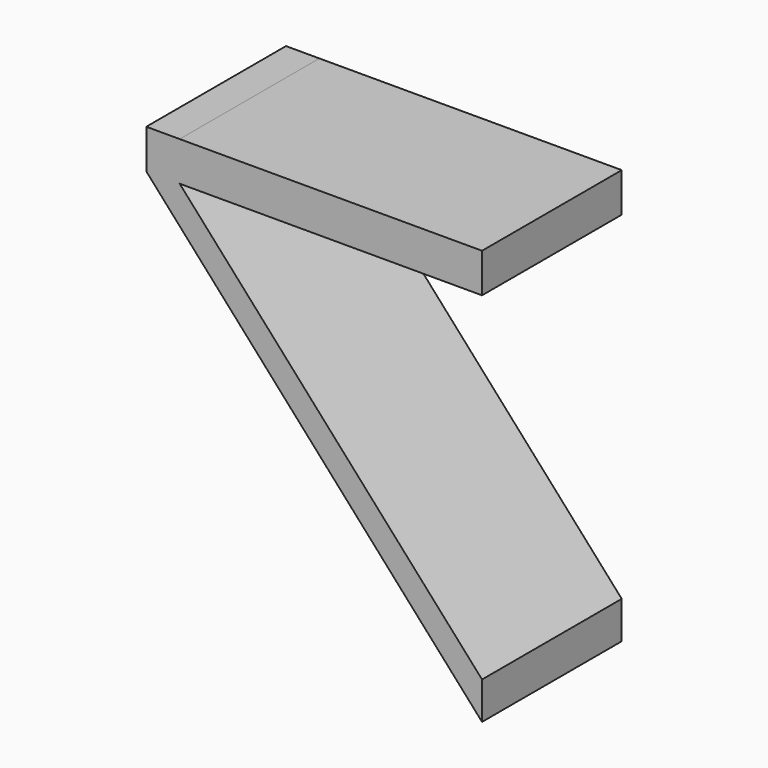
from build123d import *

# Parameters (mm, degrees)
F0_W     = 21.9891
F0_H     = 2.855729
F1_DEPTH = 12.7


with BuildPart() as f1:
    # F0 (on Front) → F1 (new body)
    with BuildSketch(Plane.XZ):
        with Locations((-10.99455, 1.427864)):
            Rectangle(F0_W, F0_H)
        Polygon((0, -24.592703), (-21.9891, 0), (-21.9891, 2.855729), (-24.41831, 2.855729), (-24.41831, 0), (-21.9891, -2.716839), (0, -27.309543), align=None)
    extrude(amount=F1_DEPTH)


solid = f1.part
